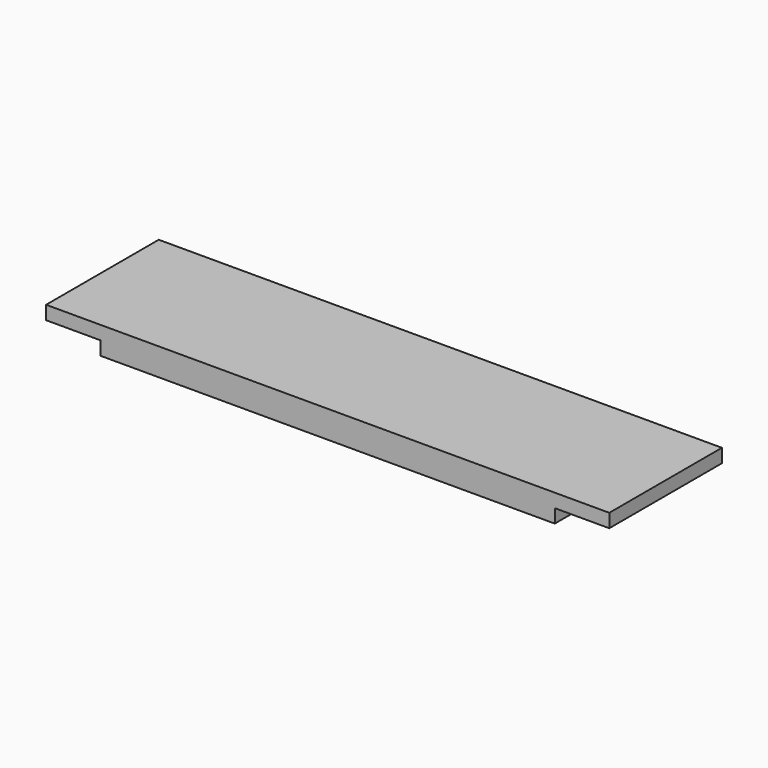
from build123d import *

# Parameters (mm, degrees)
F0_W     = 393.7
F0_H     = 98.425
F1_DEPTH = 19.05
F4_W     = 38.1
F4_H     = 98.425
F5_DEPTH = 9.526


with BuildPart() as f1:
    # F0 (on Top) → F1 (new body)
    with BuildSketch(Plane.XY):
        Rectangle(F0_W, F0_H)
    extrude(amount=F1_DEPTH)

    # F4 (on plane+point) → F5 (cut, through all)
    with BuildSketch(Plane.XY.offset(9.525)):
        with Locations((-177.8, 0)):
            Rectangle(F4_W, F4_H)
        with Locations((177.8, 0)):
            Rectangle(F4_W, F4_H)
    extrude(amount=-F5_DEPTH, mode=Mode.SUBTRACT)


solid = f1.part
